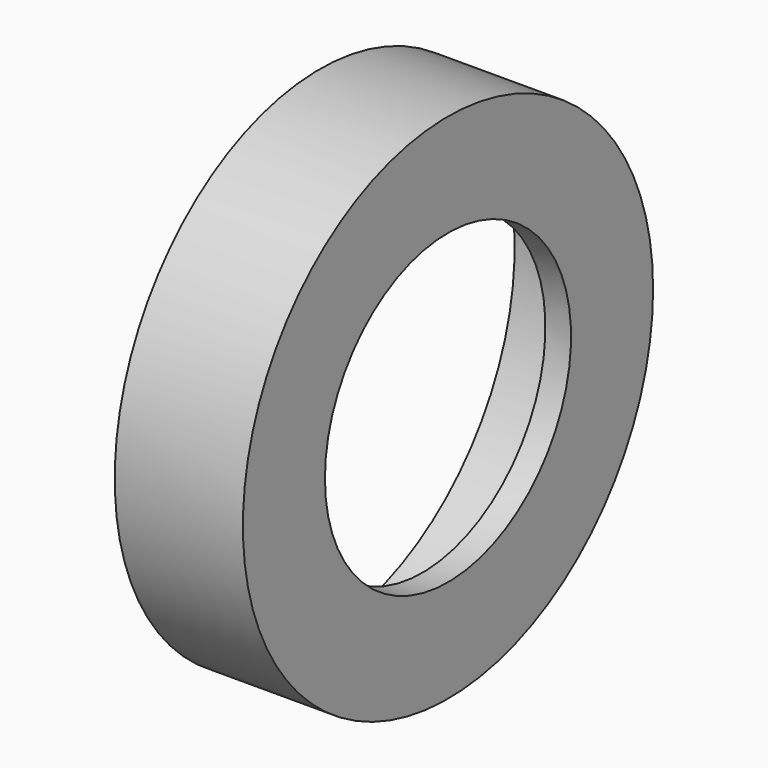
from build123d import *

# Parameters (mm, degrees)
F0_R     = 10
F1_DEPTH = 5
F2_R     = 9.5
F3_DEPTH = 4
F5_D     = 12


with BuildPart() as f1:
    # F0 (on Right) → F1 (new body)
    with BuildSketch(Plane.YZ):
        Circle(F0_R)
    extrude(amount=F1_DEPTH)

    # F2 (on face) → F3 (cut)
    with BuildSketch(Plane(origin=(0, 0, 0), x_dir=(0, -1, 0), z_dir=(-1, 0, 0))):
        Circle(F2_R)
    extrude(amount=-F3_DEPTH, mode=Mode.SUBTRACT)

    # F5 (through all)
    with Locations(Plane.YZ.offset(5)):
        with Locations((0, 0)):
            Hole(F5_D / 2)


solid = f1.part
